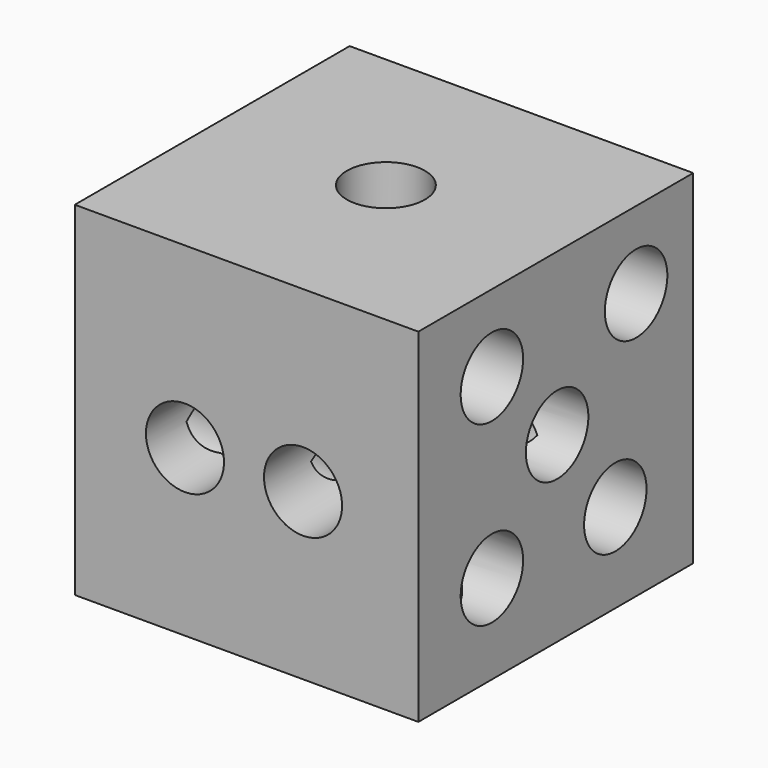
from build123d import *

# Parameters (mm, degrees)
F0_W           = 27.94
F0_H           = 27.94
F1_DEPTH       = 27.94
F8_D           = 6.35
F8_DEPTH       = 12.7
F8_TIP         = 1.9077324654
F8_ON_F5_D     = 6.35
F8_ON_F5_DEPTH = 12.7
F8_ON_F5_TIP   = 1.9077324654
F8_ON_F6_D     = 6.35
F8_ON_F6_DEPTH = 12.7
F8_ON_F6_TIP   = 1.9077324654
F8_ON_F7_D     = 6.35
F8_ON_F7_DEPTH = 12.7
F8_ON_F7_TIP   = 1.9077324654
F8_ON_F3_D     = 6.35
F8_ON_F3_DEPTH = 12.7
F8_ON_F3_TIP   = 1.9077324654
F8_ON_F4_D     = 6.35
F8_ON_F4_DEPTH = 12.7
F8_ON_F4_TIP   = 1.9077324654


with BuildPart() as f1:
    # F0 (on Top) → F1 (new body)
    with BuildSketch(Plane.XY):
        with Locations((13.97, 13.97)):
            Rectangle(F0_W, F0_H)
    extrude(amount=F1_DEPTH)

    # F8
    with Locations(Plane.XY.offset(27.94)):
        with Locations((13.7466574088, 14.4412126392)):
            Hole(F8_D / 2, depth=F8_DEPTH)
            with Locations((0, 0, -(F8_DEPTH + F8_TIP / 2))):  # 118° drill point
                Cone(0, F8_D / 2, F8_TIP, mode=Mode.SUBTRACT)

    # F8 on F5
    with Locations(Plane(origin=(0, 27.94, 0), x_dir=(-1, 0, 0), z_dir=(0, 1, 0))):
        with Locations((-7.160613779, 19.528510049), (-19.1276930273, 19.528510049), (-19.1276930273, 7.8843403608), (-7.160613779, 7.8843403608)):
            Hole(F8_ON_F5_D / 2, depth=F8_ON_F5_DEPTH)
            with Locations((0, 0, -(F8_ON_F5_DEPTH + F8_ON_F5_TIP / 2))):  # 118° drill point
                Cone(0, F8_ON_F5_D / 2, F8_ON_F5_TIP, mode=Mode.SUBTRACT)

    # F8 on F6
    with Locations(Plane.YZ.offset(27.94)):
        with Locations((22.1324972808, 21.6745901853), (7.4744061567, 21.6745901853), (14.1053786501, 14.826066792), (20.021179691, 7.2477762587), (7.4744061567, 7.2477762587)):
            Hole(F8_ON_F6_D / 2, depth=F8_ON_F6_DEPTH)
            with Locations((0, 0, -(F8_ON_F6_DEPTH + F8_ON_F6_TIP / 2))):  # 118° drill point
                Cone(0, F8_ON_F6_D / 2, F8_ON_F6_TIP, mode=Mode.SUBTRACT)

    # F8 on F7
    with Locations(Plane(origin=(0, 0, 0), x_dir=(1, 0, 0), z_dir=(0, 0, -1))):
        with Locations((21.765043959, -18.1582849473), (21.765043959, -7.0982510224), (13.4334294125, -7.0982510224), (13.4334294125, -18.1582849473), (5.1291636191, -18.1582849473), (5.1291636191, -7.0982510224)):
            Hole(F8_ON_F7_D / 2, depth=F8_ON_F7_DEPTH)
            with Locations((0, 0, -(F8_ON_F7_DEPTH + F8_ON_F7_TIP / 2))):  # 118° drill point
                Cone(0, F8_ON_F7_D / 2, F8_ON_F7_TIP, mode=Mode.SUBTRACT)

    # F8 on F3
    with Locations(Plane.XZ):
        with Locations((18.5633711517, 13.4536912665), (8.960830979, 13.4536912665)):
            Hole(F8_ON_F3_D / 2, depth=F8_ON_F3_DEPTH)
            with Locations((0, 0, -(F8_ON_F3_DEPTH + F8_ON_F3_TIP / 2))):  # 118° drill point
                Cone(0, F8_ON_F3_D / 2, F8_ON_F3_TIP, mode=Mode.SUBTRACT)

    # F8 on F4
    with Locations(Plane(origin=(0, 0, 0), x_dir=(0, -1, 0), z_dir=(-1, 0, 0))):
        with Locations((-14.9412341416, 17.3262711614), (-19.8004692793, 9.2238681391), (-7.8970678151, 8.8109634817)):
            Hole(F8_ON_F4_D / 2, depth=F8_ON_F4_DEPTH)
            with Locations((0, 0, -(F8_ON_F4_DEPTH + F8_ON_F4_TIP / 2))):  # 118° drill point
                Cone(0, F8_ON_F4_D / 2, F8_ON_F4_TIP, mode=Mode.SUBTRACT)


solid = f1.part
